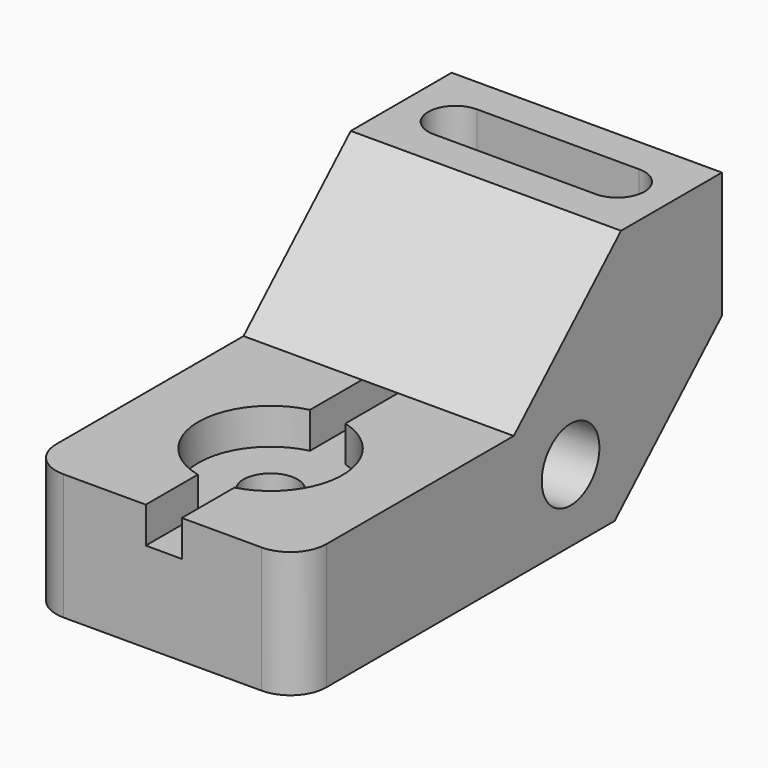
from build123d import *

# Parameters (mm, degrees)
F1_DEPTH       = 76.2
F2_R           = 10.16
F4_D           = 15.24
F4_CBORE_D     = 40.64
F4_CBORE_DEPTH = 10.16
F5_R           = 10.16
F6_DEPTH       = 76.201
F8_W           = 10.16
F8_H           = 10.16
F9_DEPTH       = 149.556668
F10_DEPTH      = 71.121


with BuildPart() as f1:
    # F0 (on Right) → F1 (new body)
    with BuildSketch(Plane.YZ):
        Polygon((76.2, 35.56), (0, 35.56), (0, 0), (111.76, 0), (149.555668, 35.56), (149.555668, 71.12), (113.995668, 71.12), align=None)
    extrude(amount=-F1_DEPTH)

    # F2
    f2_edges = [f1.edges().sort_by_distance(p)[0] for p in [
        (-76.2, 0, 17.78),
        (0, 0, 17.78),
    ]]
    fillet(f2_edges, radius=F2_R)

    # F4 (through all)
    with Locations(Plane.XY.offset(35.56)):
        with Locations((-38.1, 38.1)):
            CounterBoreHole(F4_D / 2, F4_CBORE_D / 2, F4_CBORE_DEPTH)

    # F5 (on face) → F6 (cut, through all)
    with BuildSketch(Plane.YZ):
        with Locations((96.215668, 20.32)):
            Circle(F5_R)
    extrude(amount=-F6_DEPTH, mode=Mode.SUBTRACT)

    # F8 (on face) → F9 (cut, through all)
    with BuildSketch(Plane.XZ):
        with Locations((-37.720058, 30.48)):
            Rectangle(F8_W, F8_H)
    extrude(amount=-F9_DEPTH, mode=Mode.SUBTRACT)

    # F7 (on face) → F10 (cut, through all)
    with BuildSketch(Plane.XY.offset(71.12)):
        with BuildLine():
            Line((-15.24, 139.395668), (-60.96, 139.395668))
            ThreePointArc((-60.96, 139.395668), (-68.58, 131.775668), (-60.96, 124.155668))
            Line((-60.96, 124.155668), (-15.24, 124.155668))
            ThreePointArc((-15.24, 124.155668), (-7.62, 131.775668), (-15.24, 139.395668))
        make_face()
    extrude(amount=-F10_DEPTH, mode=Mode.SUBTRACT)


solid = f1.part
